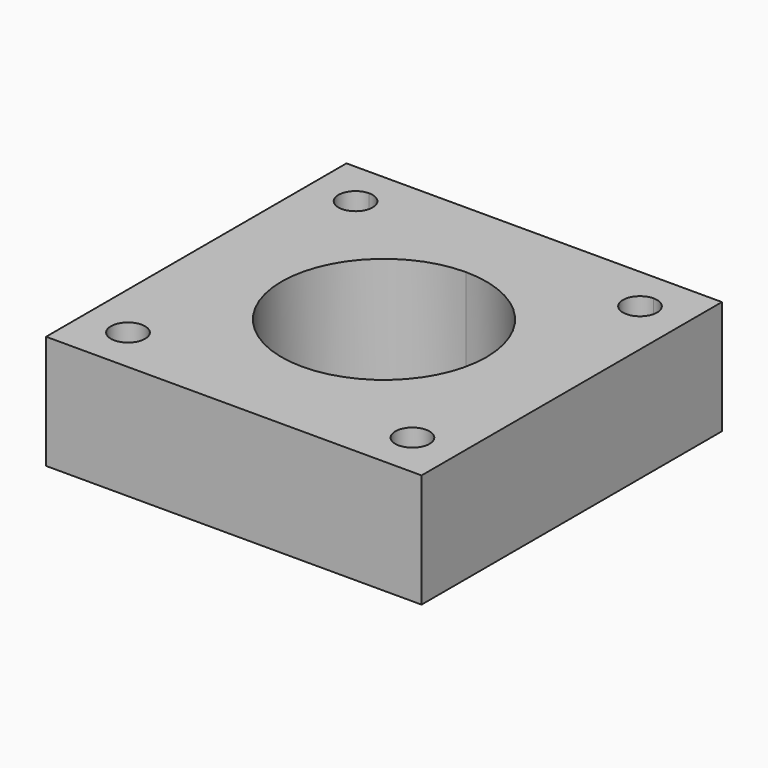
from build123d import *

# Parameters (mm, degrees)
F0_W     = 41.91
F0_H     = 41.91
F1_DEPTH = 12.7
F2_R     = 1.905
F3_DEPTH = 25.4
F5_DEPTH = 12.701


with BuildPart() as f1:
    # F0 (on Top) → F1 (new body)
    with BuildSketch(Plane.XY):
        with Locations((20.955, 20.955)):
            Rectangle(F0_W, F0_H)
    extrude(amount=F1_DEPTH)

    # F2 (on face) → F3 (cut)
    with BuildSketch(Plane.XY.offset(12.7)):
        with BuildLine():
            ThreePointArc((38.735, 36.83), (38.177038, 38.177038), (36.83, 38.735))
            ThreePointArc((36.83, 38.735), (35.482962, 35.482962), (38.735, 36.83))
        make_face()
        with Locations((5.08, 5.08)):
            Circle(F2_R)
        with BuildLine():
            ThreePointArc((6.985, 36.83), (6.427038, 38.177038), (5.08, 38.735))
            ThreePointArc((5.08, 38.735), (3.732962, 35.482962), (6.985, 36.83))
        make_face()
        with Locations((36.83, 5.08)):
            Circle(F2_R)
    extrude(amount=-F3_DEPTH, mode=Mode.SUBTRACT)

    # F4 (on face) → F5 (cut, through all)
    with BuildSketch(Plane.XY.offset(12.7)):
        with BuildLine():
            ThreePointArc((20.955, 32.385), (12.872769, 12.872769), (32.385, 20.955))
            ThreePointArc((32.385, 20.955), (29.037231, 29.037231), (20.955, 32.385))
        make_face()
    extrude(amount=-F5_DEPTH, mode=Mode.SUBTRACT)


solid = f1.part
